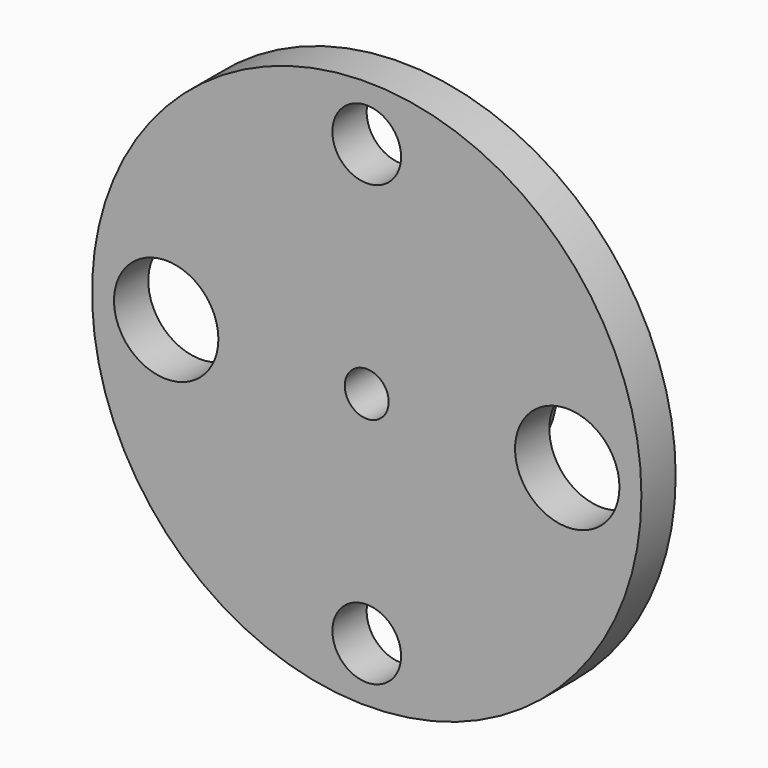
from build123d import *

# Parameters (mm, degrees)
F0_R     = 12.7
F0_R_2   = 1.5875
F0_R_3   = 2.413
F1_DEPTH = 1.9812
F2_R     = 4.953
F3_DEPTH = 2.8702
F4_R     = 2.9845
F5_DEPTH = 2.6924
F6_R     = 1.016
F7_DEPTH = 4.8524


with BuildPart() as f1:
    # F0 (on Front) → F1 (new body)
    with BuildSketch(Plane.XZ):
        Circle(F0_R)
        with Locations((0, -10.16)):
            Circle(F0_R_2, mode=Mode.SUBTRACT)
        with Locations((-9.271, 0)):
            Circle(F0_R_3, mode=Mode.SUBTRACT)
        with Locations((9.271, 0)):
            Circle(F0_R_3, mode=Mode.SUBTRACT)
        with Locations((0, 10.16)):
            Circle(F0_R_2, mode=Mode.SUBTRACT)
    extrude(amount=F1_DEPTH)

    # F2 (on face) → F3 (join)
    with BuildSketch(Plane(origin=(0, 0, 0), x_dir=(-1, 0, 0), z_dir=(0, 1, 0))):
        Circle(F2_R)
    extrude(amount=F3_DEPTH)

    # F4 (on face) → F5 (cut)
    with BuildSketch(Plane(origin=(0, 2.8702, 0), x_dir=(-1, 0, 0), z_dir=(0, 1, 0))):
        Circle(F4_R)
    extrude(amount=-F5_DEPTH, mode=Mode.SUBTRACT)

    # F6 (on face) → F7 (cut, through all)
    with BuildSketch(Plane.XZ.offset(1.9812)):
        Circle(F6_R)
    extrude(amount=-F7_DEPTH, mode=Mode.SUBTRACT)


solid = f1.part
